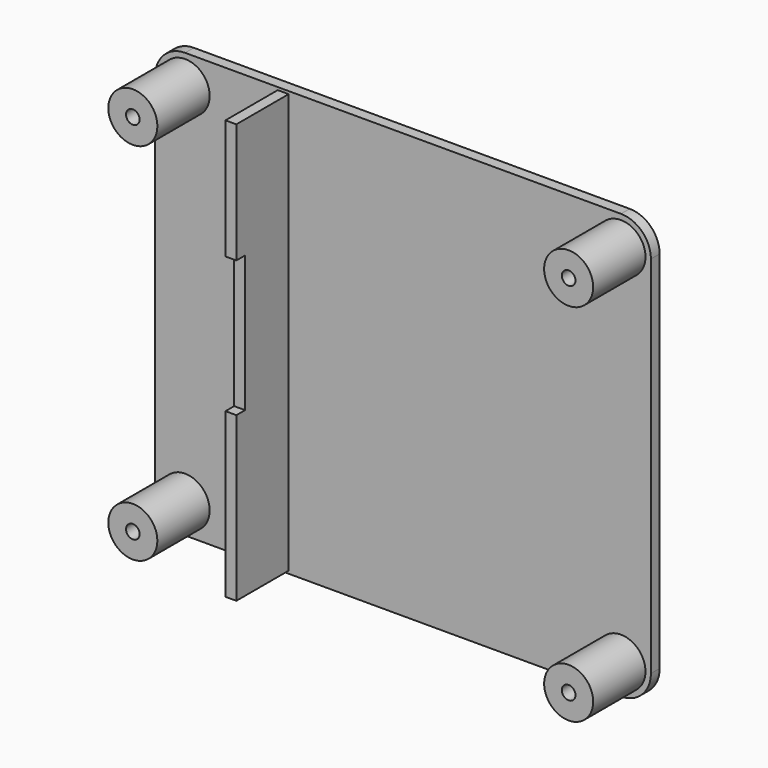
from build123d import *

# Parameters (mm, degrees)
F1_DEPTH = 2
F2_R     = 4.5
F2_W     = 2
F2_H     = 77
F3_DEPTH = 12
F4_R     = 1.25
F5_DEPTH = 25
F6_W     = 2
F6_H     = 25
F7_DEPTH = 2


with BuildPart() as f1:
    # F0 (on Front) → F1 (new body)
    with BuildSketch(Plane.XZ):
        with BuildLine():
            Line((63, 77.5), (-17, 77.5))
            ThreePointArc((-17, 77.5), (-20.889087, 75.889087), (-22.5, 72))
            Line((-22.5, 72), (-22.5, 5))
            ThreePointArc((-22.5, 5), (-20.889087, 1.110913), (-17, -0.5))
            Line((-17, -0.5), (63, -0.5))
            ThreePointArc((63, -0.5), (66.889087, 1.110913), (68.5, 5))
            Line((68.5, 5), (68.5, 72))
            ThreePointArc((68.5, 72), (66.889087, 75.889087), (63, 77.5))
        make_face()
    extrude(amount=-F1_DEPTH)

    # F2 (on Front) → F3 (join)
    with BuildSketch(Plane.XZ):
        with Locations((-17, 72)):
            Circle(F2_R)
        with Locations((63, 72)):
            Circle(F2_R)
        with Locations((-17, 5)):
            Circle(F2_R)
        with Locations((63, 5)):
            Circle(F2_R)
        with Locations((1, 38.5)):
            Rectangle(F2_W, F2_H)
    extrude(amount=F3_DEPTH)

    # F4 (on face) → F5 (cut)
    with BuildSketch(Plane.XZ.offset(12)):
        with Locations((-17, 72)):
            Circle(F4_R)
        with Locations((63, 72)):
            Circle(F4_R)
        with Locations((63, 5)):
            Circle(F4_R)
        with Locations((-17, 5)):
            Circle(F4_R)
    extrude(amount=-F5_DEPTH, mode=Mode.SUBTRACT)

    # F6 (on face) → F7 (cut)
    with BuildSketch(Plane.XZ.offset(12)):
        with Locations((1, 42.5)):
            Rectangle(F6_W, F6_H)
    extrude(amount=-F7_DEPTH, mode=Mode.SUBTRACT)


solid = f1.part
